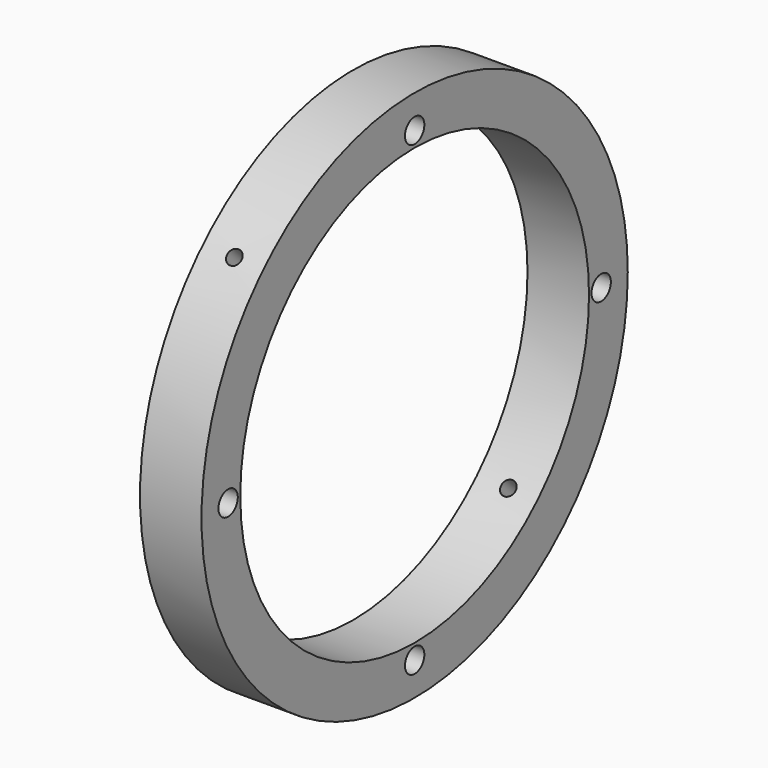
from build123d import *

# Parameters (mm, degrees)
F0_R     = 110
F0_R_2   = 90
F1_DEPTH = 25.4
F4_R     = 3
F5_DEPTH = 110.5
F7_R     = 5
F8_DEPTH = 25.5


with BuildPart() as f1:
    # F0 (on Right) → F1 (new body)
    with BuildSketch(Plane.YZ):
        Circle(F0_R)
        Circle(F0_R_2, mode=Mode.SUBTRACT)
    extrude(amount=-F1_DEPTH)

    # F4 (on face) → F5 (cut, symmetric)
    with BuildSketch(Plane(origin=(0, 0, 0), x_dir=(-1, 0, 0), z_dir=(0, 0.707107, -0.707107))):
        with Locations((12.223506, 0)):
            Circle(F4_R)
    extrude(amount=F5_DEPTH, both=True, mode=Mode.SUBTRACT)

    # F7 (on face) → F8 (cut)
    with BuildSketch(Plane.YZ):
        with Locations((0, 96.278802)):
            Circle(F7_R)
        with Locations((-96.278802, 0)):
            Circle(F7_R)
        with Locations((0, -96.278802)):
            Circle(F7_R)
        with Locations((96.278802, 0)):
            Circle(F7_R)
    extrude(amount=-F8_DEPTH, mode=Mode.SUBTRACT)


solid = f1.part
